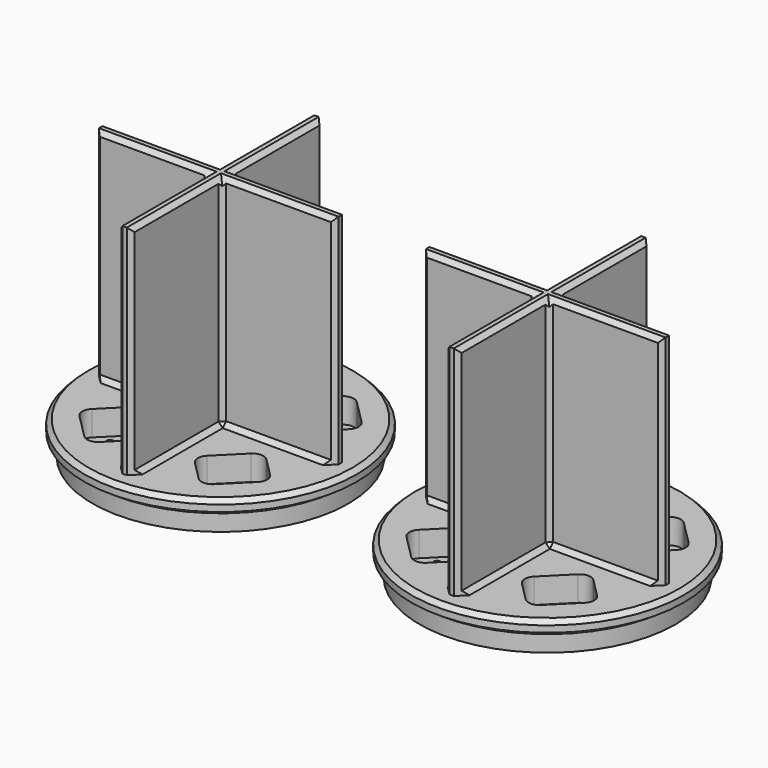
from build123d import *

# Parameters (mm, degrees)
F0_R      = 12.5
F1_DEPTH  = 3
F3_DEPTH  = 2.3
F4_R      = 0.305
F5_DEPTH  = 0.7
F6_R      = 1
F8_DEPTH  = 2
F9_R      = 12.5
F9_R_2    = 11.75
F10_DEPTH = 2
F11_SIZE  = 0.5
F13_DEPTH = 2
F15_DEPTH = 20
F16_SIZE  = 0.4
F17_SIZE  = 0.4


with BuildPart() as f1:
    # F0 (on Top) → F1 (new body)
    with BuildSketch(Plane.XY):
        Circle(F0_R)
    extrude(amount=F1_DEPTH)

    # F2 (on face) → F3 (cut)
    with BuildSketch(Plane.XY.offset(3)):
        Polygon((-8.888225, 5.246625), (-5.7416, 2.1), (-2.1, 5.7416), (-5.246625, 8.888225), align=None)
        Polygon((8.888225, 5.246625), (5.246625, 8.888225), (2.1, 5.7416), (5.7416, 2.1), align=None)
        Polygon((8.888225, -5.246625), (5.7416, -2.1), (2.1, -5.7416), (5.246625, -8.888225), align=None)
        Polygon((-5.246625, -8.888225), (-2.1, -5.7416), (-5.7416, -2.1), (-8.888225, -5.246625), align=None)
    extrude(amount=-F3_DEPTH, mode=Mode.SUBTRACT)

    # F4 (on face) → F5 (cut, through all)
    with BuildSketch(Plane.XY.offset(0.7)):
        with Locations((-4.256676, 6.731549)):
            Circle(F4_R)
        with Locations((-6.731549, 4.256676)):
            Circle(F4_R)
        with Locations((4.256676, 6.731549)):
            Circle(F4_R)
        with Locations((6.731549, 4.256676)):
            Circle(F4_R)
        with Locations((6.731549, -4.256676)):
            Circle(F4_R)
        with Locations((4.256676, -6.731549)):
            Circle(F4_R)
        with Locations((-4.256676, -6.731549)):
            Circle(F4_R)
        with Locations((-6.731549, -4.256676)):
            Circle(F4_R)
    extrude(amount=-F5_DEPTH, mode=Mode.SUBTRACT)

    # F6
    f6_edges = [f1.edges().sort_by_distance(p)[0] for p in [
        (5.246625, 8.888225, 1.85),
        (-5.246625, 8.888225, 1.85),
        (-5.7416, -2.1, 1.85),
        (5.7416, -2.1, 1.85),
        (2.1, 5.7416, 1.85),
        (-8.888225, 5.246625, 1.85),
        (-8.888225, -5.246625, 1.85),
        (2.1, -5.7416, 1.85),
        (-2.1, 5.7416, 1.85),
        (8.888225, 5.246625, 1.85),
        (8.888225, -5.246625, 1.85),
        (-2.1, -5.7416, 1.85),
        (-5.7416, 2.1, 1.85),
        (-5.246625, -8.888225, 1.85),
        (5.246625, -8.888225, 1.85),
        (5.7416, 2.1, 1.85),
    ]]
    fillet(f6_edges, radius=F6_R)

    # F7 (on face) → F8 (cut)
    with BuildSketch(Plane(origin=(0, 0, 0), x_dir=(1, 0, 0), z_dir=(0, 0, -1))):
        Polygon((-1.799695, 4.344848), (-4.344848, 1.799695), (-4.344848, 1), (-1, 1), (-1, 4.344848), align=None)
        Polygon((4.344848, 1.799695), (1.799695, 4.344848), (1, 4.344848), (1, 1), (4.344848, 1), align=None)
        Polygon((-4.344848, -1.799695), (-1.799695, -4.344848), (-1, -4.344848), (-1, -1), (-4.344848, -1), align=None)
        Polygon((1.799695, -4.344848), (4.344848, -1.799695), (4.344848, -1), (1, -1), (1, -4.344848), align=None)
    extrude(amount=-F8_DEPTH, mode=Mode.SUBTRACT)

    # F9 (on face) → F10 (cut)
    with BuildSketch(Plane(origin=(0, 0, 0), x_dir=(1, 0, 0), z_dir=(0, 0, -1))):
        Circle(F9_R)
        Circle(F9_R_2, mode=Mode.SUBTRACT)
    extrude(amount=-F10_DEPTH, mode=Mode.SUBTRACT)

    # F11
    f11_edges = [f1.edges().sort_by_distance(p)[0] for p in [
        (-11.75, 0, 2),
    ]]
    chamfer(f11_edges, length=F11_SIZE)

    # F12 (on Top) → F13 (cut)
    with BuildSketch(Plane.XY):
        with BuildLine():
            Line((-0.73708, -10.768427), (-0.73708, -6.5))
            Line((-0.73708, -6.5), (-4.185965, -9.948885))
            ThreePointArc((-4.185965, -9.948885), (-2.495397, -10.50121), (-0.73708, -10.768427))
        make_face()
        with BuildLine():
            Line((4.185965, -9.948885), (0.73708, -6.5))
            Line((0.73708, -6.5), (0.73708, -10.768427))
            ThreePointArc((0.73708, -10.768427), (2.495397, -10.50121), (4.185965, -9.948885))
        make_face()
        with BuildLine():
            Line((10.768427, -0.73708), (6.5, -0.73708))
            Line((6.5, -0.73708), (9.948885, -4.185965))
            ThreePointArc((9.948885, -4.185965), (10.50121, -2.495397), (10.768427, -0.73708))
        make_face()
        with BuildLine():
            Line((9.948885, 4.185965), (6.5, 0.73708))
            Line((6.5, 0.73708), (10.768427, 0.73708))
            ThreePointArc((10.768427, 0.73708), (10.50121, 2.495397), (9.948885, 4.185965))
        make_face()
        with BuildLine():
            Line((0.73708, 10.768427), (0.73708, 6.5))
            Line((0.73708, 6.5), (4.185965, 9.948885))
            ThreePointArc((4.185965, 9.948885), (2.495397, 10.50121), (0.73708, 10.768427))
        make_face()
        with BuildLine():
            Line((-4.185965, 9.948885), (-0.73708, 6.5))
            Line((-0.73708, 6.5), (-0.73708, 10.768427))
            ThreePointArc((-0.73708, 10.768427), (-2.495397, 10.50121), (-4.185965, 9.948885))
        make_face()
        with BuildLine():
            Line((-10.768427, 0.73708), (-6.5, 0.73708))
            Line((-6.5, 0.73708), (-9.948885, 4.185965))
            ThreePointArc((-9.948885, 4.185965), (-10.50121, 2.495397), (-10.768427, 0.73708))
        make_face()
        with BuildLine():
            Line((-9.948885, -4.185965), (-6.5, -0.73708))
            Line((-6.5, -0.73708), (-10.768427, -0.73708))
            ThreePointArc((-10.768427, -0.73708), (-10.50121, -2.495397), (-9.948885, -4.185965))
        make_face()
    extrude(amount=F13_DEPTH, mode=Mode.SUBTRACT)

    # F14 (on face) → F15 (join)
    with BuildSketch(Plane.XY.offset(3)):
        Polygon((-11, 0.6), (-11, -0.6), (-0.6, -0.6), (-0.6, -11), (0.6, -11), (0.6, -0.6), (11, -0.6), (11, 0.6), (0.6, 0.6), (0.6, 11), (-0.6, 11), (-0.6, 0.6), align=None)
    extrude(amount=F15_DEPTH)

    # F16
    f16_edges = [f1.edges().sort_by_distance(p)[0] for p in [
        (-0.6, -11, 13),
        (0.6, -11, 13),
        (11, -0.6, 13),
        (11, 0.6, 13),
        (0.6, 11, 13),
        (-0.6, 11, 13),
        (-11, 0.6, 13),
        (-11, -0.6, 13),
        (5.8, 0.6, 23),
        (5.8, -0.6, 23),
        (0.6, 5.8, 23),
        (-0.6, 5.8, 23),
        (-5.8, 0.6, 23),
        (-5.8, -0.6, 23),
        (-0.6, -5.8, 23),
        (0.6, -5.8, 23),
    ]]
    chamfer(f16_edges, length=F16_SIZE)

    # F17
    f17_edges = [f1.edges().sort_by_distance(p)[0] for p in [
        (0.6, 0.6, 12.8),
        (0.6, -0.6, 12.8),
        (-0.6, -0.6, 12.8),
        (-0.6, 0.6, 12.8),
        (-0.6, 5.6, 3),
        (-5.6, 0.6, 3),
        (5.6, 0.6, 3),
        (0.6, 5.6, 3),
        (5.6, -0.6, 3),
        (0.6, -5.6, 3),
        (-0.6, -5.6, 3),
        (-5.6, -0.6, 3),
        (-12.5, 0, 3),
    ]]
    chamfer(f17_edges, length=F17_SIZE)


with BuildPart() as f18_1:
    # F18: copy of F1
    add(f1.part.moved(Location((30, 0, 0))))


solid = Compound([f1.part, f18_1.part])
